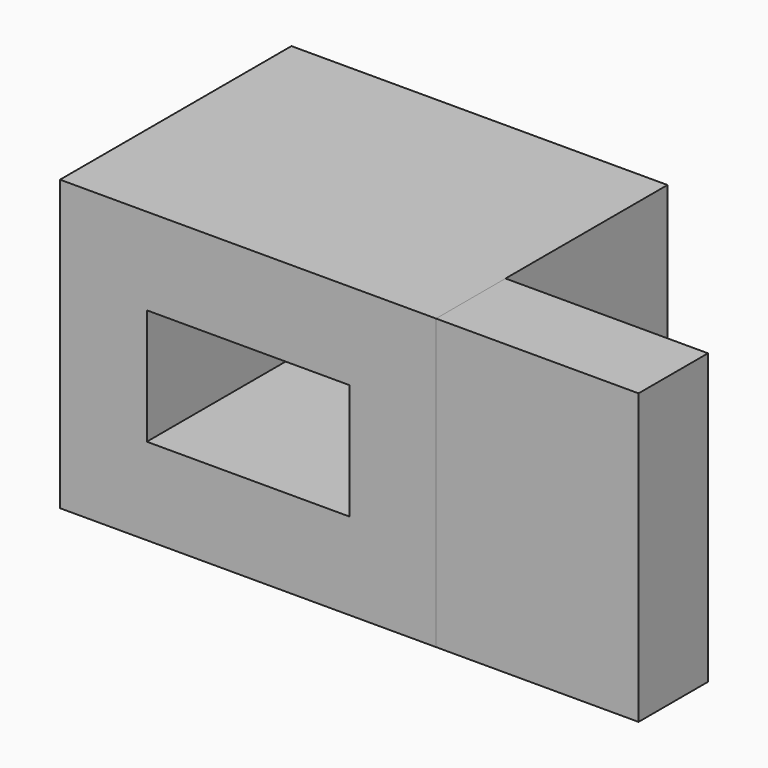
from build123d import *

# Parameters (mm, degrees)
F0_W     = 82.55
F0_H     = 63.5
F0_W_2   = 44.45
F0_H_2   = 25.4
F1_DEPTH = 63.5
F2_W     = 44.45
F2_H     = 63.5
F3_DEPTH = 19.05


with BuildPart() as f1:
    # F0 (on Front) → F1 (new body)
    with BuildSketch(Plane.XZ):
        with Locations((-1.096207, 2.602791)):
            Rectangle(F0_W, F0_H)
        with Locations((-1.096207, 2.602791)):
            Rectangle(F0_W_2, F0_H_2, mode=Mode.SUBTRACT)
    extrude(amount=F1_DEPTH)


with BuildPart() as f3:
    # F2 (on face) → F3 (new body)
    with BuildSketch(Plane.XZ.offset(63.5)):
        with Locations((62.403793, 2.602791)):
            Rectangle(F2_W, F2_H)
    extrude(amount=-F3_DEPTH)


solid = Compound([f1.part, f3.part])
